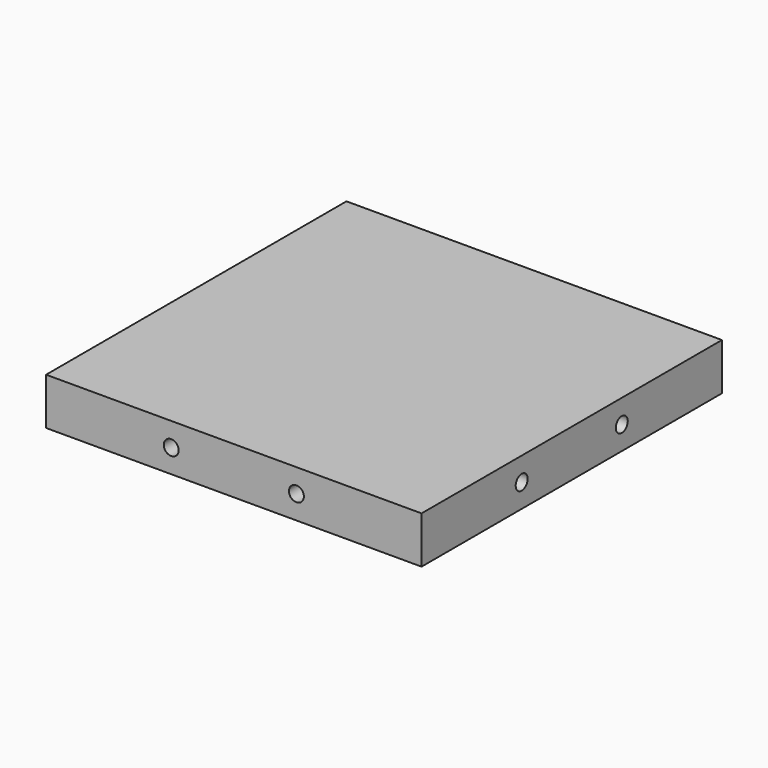
from build123d import *

# Parameters (mm, degrees)
F0_W           = 101.6
F0_H           = 101.6
F1_DEPTH       = 12.7
F3_DEPTH       = 6.35
F8_D           = 4.0386
F8_DEPTH       = 15.08125
F8_TIP         = 1.213317848
F8_ON_F7_D     = 4.0386
F8_ON_F7_DEPTH = 15.08125
F8_ON_F7_TIP   = 1.213317848
F8_ON_F6_D     = 4.0386
F8_ON_F6_DEPTH = 15.08125
F8_ON_F6_TIP   = 1.213317848
F8_ON_F5_D     = 4.0386
F8_ON_F5_DEPTH = 15.08125
F8_ON_F5_TIP   = 1.213317848


with BuildPart() as f1:
    # F0 (on Top) → F1 (new body)
    with BuildSketch(Plane.XY):
        Rectangle(F0_W, F0_H)
    extrude(amount=F1_DEPTH)

    # F2 (on face) → F3 (cut)
    with BuildSketch(Plane(origin=(0, 0, 0), x_dir=(1, 0, 0), z_dir=(0, 0, -1))):
        with BuildLine():
            Line((-12.1741207811, 16.6642488417), (0, 4.4901280605))
            Line((0, 4.4901280605), (12.1741207811, 16.6642488417))
            ThreePointArc((12.1741207811, 16.6642488417), (0, 20.6375), (-12.1741207811, 16.6642488417))
        make_face()
        with BuildLine():
            Line((39.9598719395, 44.45), (-39.9598719395, 44.45))
            Line((-39.9598719395, 44.45), (-16.705457483, 21.1955855435))
            ThreePointArc((-16.705457483, 21.1955855435), (0, 26.9875), (16.705457483, 21.1955855435))
            Line((16.705457483, 21.1955855435), (39.9598719395, 44.45))
        make_face()
        with BuildLine():
            Line((-44.45, 39.9598719395), (-44.45, -39.9598719395))
            Line((-44.45, -39.9598719395), (-21.1955855435, -16.705457483))
            ThreePointArc((-21.1955855435, -16.705457483), (-26.9875, 0), (-21.1955855435, 16.705457483))
            Line((-21.1955855435, 16.705457483), (-44.45, 39.9598719395))
        make_face()
        with BuildLine():
            Line((-16.6642488417, -12.1741207811), (-4.4901280605, 0))
            Line((-4.4901280605, 0), (-16.6642488417, 12.1741207811))
            ThreePointArc((-16.6642488417, 12.1741207811), (-20.6375, 0), (-16.6642488417, -12.1741207811))
        make_face()
        with BuildLine():
            Line((-39.9598719395, -44.45), (39.9598719395, -44.45))
            Line((39.9598719395, -44.45), (16.705457483, -21.1955855435))
            ThreePointArc((16.705457483, -21.1955855435), (0, -26.9875), (-16.705457483, -21.1955855435))
            Line((-16.705457483, -21.1955855435), (-39.9598719395, -44.45))
        make_face()
        with BuildLine():
            Line((12.1741207811, -16.6642488417), (0, -4.4901280605))
            Line((0, -4.4901280605), (-12.1741207811, -16.6642488417))
            ThreePointArc((-12.1741207811, -16.6642488417), (0, -20.6375), (12.1741207811, -16.6642488417))
        make_face()
        with BuildLine():
            Line((44.45, -39.9598719395), (44.45, 39.9598719395))
            Line((44.45, 39.9598719395), (21.1955855435, 16.705457483))
            ThreePointArc((21.1955855435, 16.705457483), (26.9875, 0), (21.1955855435, -16.705457483))
            Line((21.1955855435, -16.705457483), (44.45, -39.9598719395))
        make_face()
        with BuildLine():
            Line((16.6642488417, 12.1741207811), (4.4901280605, 0))
            Line((4.4901280605, 0), (16.6642488417, -12.1741207811))
            ThreePointArc((16.6642488417, -12.1741207811), (20.6375, 0), (16.6642488417, 12.1741207811))
        make_face()
    extrude(amount=-F3_DEPTH, mode=Mode.SUBTRACT)

    # F8
    with Locations(Plane.XZ.offset(50.8)):
        with Locations((-16.9333333333, 6.35), (16.9333333333, 6.35)):
            Hole(F8_D / 2, depth=F8_DEPTH)
            with Locations((0, 0, -(F8_DEPTH + F8_TIP / 2))):  # 118° drill point
                Cone(0, F8_D / 2, F8_TIP, mode=Mode.SUBTRACT)

    # F8 on F7
    with Locations(Plane(origin=(-50.8, 0, 0), x_dir=(0, -1, 0), z_dir=(-1, 0, 0))):
        with Locations((16.9333333333, 6.35), (-16.9333333333, 6.35)):
            Hole(F8_ON_F7_D / 2, depth=F8_ON_F7_DEPTH)
            with Locations((0, 0, -(F8_ON_F7_DEPTH + F8_ON_F7_TIP / 2))):  # 118° drill point
                Cone(0, F8_ON_F7_D / 2, F8_ON_F7_TIP, mode=Mode.SUBTRACT)

    # F8 on F6
    with Locations(Plane(origin=(0, 50.8, 0), x_dir=(-1, 0, 0), z_dir=(0, 1, 0))):
        with Locations((16.9333333333, 6.35), (-16.9333333333, 6.35)):
            Hole(F8_ON_F6_D / 2, depth=F8_ON_F6_DEPTH)
            with Locations((0, 0, -(F8_ON_F6_DEPTH + F8_ON_F6_TIP / 2))):  # 118° drill point
                Cone(0, F8_ON_F6_D / 2, F8_ON_F6_TIP, mode=Mode.SUBTRACT)

    # F8 on F5
    with Locations(Plane.YZ.offset(50.8)):
        with Locations((16.9333333333, 6.35), (-16.9333333333, 6.35)):
            Hole(F8_ON_F5_D / 2, depth=F8_ON_F5_DEPTH)
            with Locations((0, 0, -(F8_ON_F5_DEPTH + F8_ON_F5_TIP / 2))):  # 118° drill point
                Cone(0, F8_ON_F5_D / 2, F8_ON_F5_TIP, mode=Mode.SUBTRACT)


solid = f1.part
